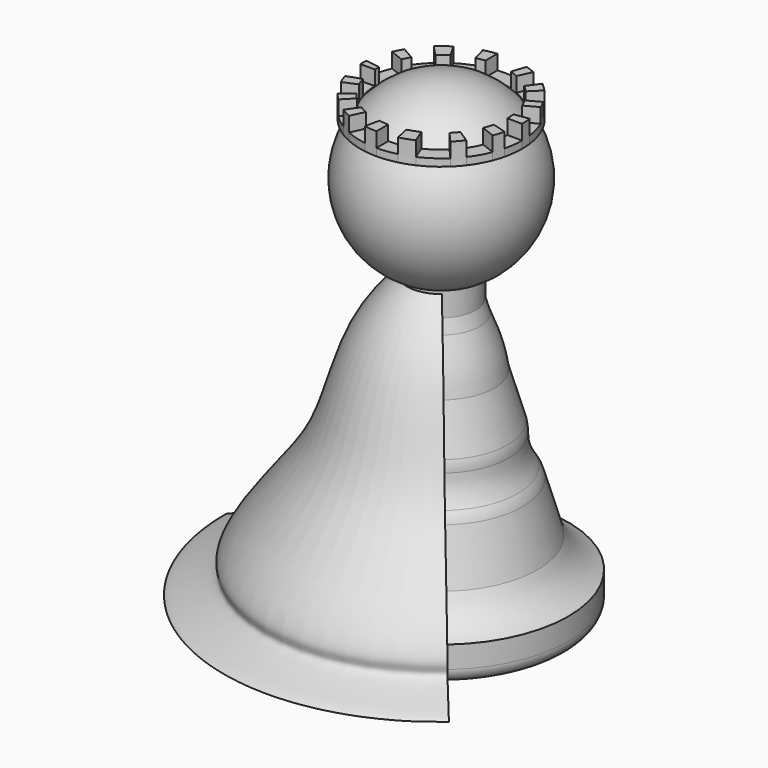
from build123d import *

# Parameters (mm, degrees)
F4_DEPTH = 3
F5_DEPTH = 1
F6_DEPTH = 5
F7_R     = 2
F9_ANGLE = 130


with BuildPart() as f1:
    # F0 (on Front) → F1 (revolve)
    with BuildSketch(Plane.XZ):
        with BuildLine():
            Line((0, 8.9536571056), (0, 32.9536571056))
            ThreePointArc((0, 32.9536571056), (-11.7588657163, 23.3472061581), (-4.6909036491, 9.9085032834))
            Line((-4.6909036491, 9.9085032834), (-4.6909036491, 6.6269987595))
            Line((-4.6909036491, 6.6269987595), (-5.2184266047, 4.840303768))
            ThreePointArc((-5.2184266047, 4.840303768), (-6.437289583, 1.5371214777), (-7.2080250168, -1.898370786))
            Line((-7.2080250168, -1.898370786), (-9.0345873542, -8.0848499615))
            ThreePointArc((-9.0345873542, -8.0848499615), (-9.1943632252, -8.8323349831), (-9.2383352939, -9.5954395917))
            ThreePointArc((-9.2383352939, -9.5954395917), (-9.5119385128, -11.6239370875), (-10.3839968128, -13.4757402987))
            ThreePointArc((-10.3839968128, -13.4757402987), (-10.7615590432, -14.1403521769), (-11.0334046763, -14.8547485222))
            Line((-11.0334046763, -14.8547485222), (-13.0695258964, -21.7509935991))
            ThreePointArc((-13.0695258964, -21.7509935991), (-14.775521433, -24.2536570073), (-17.3054318875, -25.9189791977))
            Line((-17.3054318875, -25.9189791977), (-14.3001265824, -25.9189791977))
            Line((-14.3001265824, -25.9189791977), (0, -25.9189791977))
            Line((0, -25.9189791977), (0, 8.9536571056))
        make_face()
    revolve(axis=Axis((0, 0, 20.9536571056), (0, 0, -1)))

    # F3 (on offset) → F4 (join)
    with BuildSketch(Plane.XY.offset(28)):
        with BuildLine():
            Line((-7.7326163344, 4.6050672769), (-9.4700141114, 5.5963231438))
            ThreePointArc((-9.4700141114, 5.5963231438), (-9.8179681197, 4.9605949241), (-10.1233054635, 4.3033343458))
            Line((-10.1233054635, 4.3033343458), (-8.2608121396, 3.5719718355))
            ThreePointArc((-8.2608121396, 3.5719718355), (-8.0133800694, 4.0970403786), (-7.7326163344, 4.6050672769))
        make_face()
        with BuildLine():
            Line((-4.7989606069, 7.6138017503), (-5.8026207118, 9.3450303838))
            ThreePointArc((-5.8026207118, 9.3450303838), (-6.6653951804, 8.750571815), (-7.4676984972, 8.0767245313))
            Line((-7.4676984972, 8.0767245313), (-6.0988601505, 6.618451848))
            ThreePointArc((-6.0988601505, 6.618451848), (-5.4715906894, 7.1457466599), (-4.7989606069, 7.6138017503))
        make_face()
        with BuildLine():
            Line((-1.1204054688, 8.9299883307), (-1.1204054688, 10.9427917638))
            ThreePointArc((-1.1204054688, 10.9427917638), (-1.9837997538, 10.81963671), (-2.8347236956, 10.6284684489))
            Line((-2.8347236956, 10.6284684489), (-2.3193193873, 8.69601964))
            ThreePointArc((-2.3193193873, 8.69601964), (-1.7238364506, 8.833367868), (-1.1204054688, 8.9299883307))
        make_face()
        with BuildLine():
            Line((3.6675038903, 8.2188451266), (4.5112692622, 10.032370091))
            ThreePointArc((4.5112692622, 10.032370091), (3.8634934166, 10.2991950472), (3.2000461847, 10.5242436505))
            Line((3.2000461847, 10.5242436505), (2.5753451667, 8.6236649559))
            ThreePointArc((2.5753451667, 8.6236649559), (3.1279803166, 8.4389418258), (3.6675038903, 8.2188451266))
        make_face()
        with BuildLine():
            Line((6.6480759075, 6.066554766), (8.0697693557, 7.4752138796))
            ThreePointArc((8.0697693557, 7.4752138796), (7.5163758221, 8.0314441105), (6.9247396844, 8.546811119))
            Line((6.9247396844, 8.546811119), (5.7400802682, 6.9319173765))
            ThreePointArc((5.7400802682, 6.9319173765), (6.2091719633, 6.5150735629), (6.6480759075, 6.066554766))
        make_face()
        with BuildLine():
            Line((8.381330513, 3.2792222908), (10.1536838858, 4.231158653))
            ThreePointArc((10.1536838858, 4.231158653), (9.9031392577, 4.7883016657), (9.6220519611, 5.3306768855))
            Line((9.6220519611, 5.3306768855), (7.8599288471, 4.3842352262))
            ThreePointArc((7.8599288471, 4.3842352262), (8.1394035283, 3.8405872211), (8.381330513, 3.2792222908))
        make_face()
        with BuildLine():
            Line((9, 0), (11, 0))
            ThreePointArc((11, 0), (10.9768326617, 0.7135437743), (10.9074282331, 1.4240819286))
            Line((10.9074282331, 1.4240819286), (8.9293318315, 1.1256256226))
            ThreePointArc((8.9293318315, 1.1256256226), (8.9823155835, 0.5639208793), (9, 0))
        make_face()
        with BuildLine():
            ThreePointArc((10.2325994605, -4.0365713522), (10.4874151945, -3.3187531602), (10.691943858, -2.5850215738))
            Line((10.691943858, -2.5850215738), (8.7697045642, -2.0229389158))
            ThreePointArc((8.7697045642, -2.0229389158), (8.5924806808, -2.6775503262), (8.3664680129, -3.3169583941))
            Line((8.3664680129, -3.3169583941), (10.2325994605, -4.0365713522))
        make_face()
        with BuildLine():
            ThreePointArc((7.6075492846, -7.9451364924), (8.2033295315, -7.3283957725), (8.7492577233, -6.6671200148))
            Line((8.7492577233, -6.6671200148), (7.0745743306, -5.5633081921))
            ThreePointArc((7.0745743306, -5.5633081921), (6.6944584644, -6.0153325651), (6.2855139371, -6.4414528289))
            Line((6.2855139371, -6.4414528289), (7.6075492846, -7.9451364924))
        make_face()
        with BuildLine():
            ThreePointArc((2.6579308296, -10.6740528247), (3.627102701, -10.384802646), (4.5656102732, -10.007757133))
            Line((4.5656102732, -10.007757133), (3.8169007496, -8.1505379373))
            ThreePointArc((3.8169007496, -8.1505379373), (3.0455320567, -8.4690456659), (2.2479771709, -8.7147345708))
            Line((2.2479771709, -8.7147345708), (2.6579308296, -10.6740528247))
        make_face()
        with BuildLine():
            ThreePointArc((-1.6964392248, -10.8683988681), (-0.8507680209, -10.967050368), (0, -11))
            Line((0, -11), (0, -9))
            ThreePointArc((0, -9), (-0.6415158938, -8.9771074048), (-1.2797682401, -8.9085460796))
            Line((-1.2797682401, -8.9085460796), (-1.6964392248, -10.8683988681))
        make_face()
        with BuildLine():
            ThreePointArc((-5.8350630782, -9.3248077124), (-5.1757562227, -9.7062633141), (-4.4916316629, -10.041177471))
            Line((-4.4916316629, -10.041177471), (-3.654572884, -8.2246031537))
            ThreePointArc((-3.654572884, -8.2246031537), (-4.1799452503, -7.9704490278), (-4.687740666, -7.6827786281))
            Line((-4.687740666, -7.6827786281), (-5.8350630782, -9.3248077124))
        make_face()
        with BuildLine():
            ThreePointArc((-8.6622513575, -6.7797788622), (-8.2167931961, -7.313296765), (-7.7385307219, -7.817617429))
            Line((-7.7385307219, -7.817617429), (-6.3378864665, -6.3899291966))
            ThreePointArc((-6.3378864665, -6.3899291966), (-6.7225926494, -5.9838740019), (-7.0813313932, -5.5547048256))
            Line((-7.0813313932, -5.5547048256), (-8.6622513575, -6.7797788622))
        make_face()
        with BuildLine():
            ThreePointArc((-10.5379334072, -3.1546726464), (-10.3051906279, -3.8474726929), (-10.0269567253, -4.5232884972))
            Line((-10.0269567253, -4.5232884972), (-8.1851017827, -3.7422064088))
            ThreePointArc((-8.1851017827, -3.7422064088), (-8.4390860639, -3.1275911508), (-8.6469929423, -2.4958992478))
            Line((-8.6469929423, -2.4958992478), (-10.5379334072, -3.1546726464))
        make_face()
        with BuildLine():
            Line((-8.9736507136, 0.688180841), (-10.9525234141, 1.0208970879))
            ThreePointArc((-10.9525234141, 1.0208970879), (-10.9881244431, 0.5110002178), (-11, 0))
            Line((-11, 0), (-9, 0))
            ThreePointArc((-9, 0), (-8.9934102659, 0.3443425456), (-8.9736507136, 0.688180841))
        make_face()
    extrude(amount=F4_DEPTH)

    # F3 (on offset) → F5 (join)
    with BuildSketch(Plane.XY.offset(28)):
        with BuildLine():
            Line((-2.3193193873, 8.69601964), (-2.8347236956, 10.6284684489))
            ThreePointArc((-2.8347236956, 10.6284684489), (-4.366088973, 10.0963987184), (-5.8026207118, 9.3450303838))
            Line((-5.8026207118, 9.3450303838), (-4.7989606069, 7.6138017503))
            ThreePointArc((-4.7989606069, 7.6138017503), (-3.60003839, 8.2486194961), (-2.3193193873, 8.69601964))
        make_face()
        with BuildLine():
            Line((-6.0988601505, 6.618451848), (-7.4676984972, 8.0767245313))
            ThreePointArc((-7.4676984972, 8.0767245313), (-8.5591836564, 6.9094410147), (-9.4700141114, 5.5963231438))
            Line((-9.4700141114, 5.5963231438), (-7.7326163344, 4.6050672769))
            ThreePointArc((-7.7326163344, 4.6050672769), (-6.9886239558, 5.6709025035), (-6.0988601505, 6.618451848))
        make_face()
        with BuildLine():
            Line((-8.2608121396, 3.5719718355), (-10.1233054635, 4.3033343458))
            ThreePointArc((-10.1233054635, 4.3033343458), (-10.6649537884, 2.6942087321), (-10.9525234141, 1.0208970879))
            Line((-10.9525234141, 1.0208970879), (-8.9736507136, 0.688180841))
            ThreePointArc((-8.9736507136, 0.688180841), (-8.7370326819, 2.1596897728), (-8.2608121396, 3.5719718355))
        make_face()
        with BuildLine():
            ThreePointArc((-11, 0), (-10.8838703474, -1.5941663215), (-10.5379334072, -3.1546726464))
            Line((-10.5379334072, -3.1546726464), (-8.6469929423, -2.4958992478))
            ThreePointArc((-8.6469929423, -2.4958992478), (-8.9113112526, -1.2603696916), (-9, 0))
            Line((-9, 0), (-11, 0))
        make_face()
        with BuildLine():
            ThreePointArc((-10.0269567253, -4.5232884972), (-9.4124684266, -5.6925774582), (-8.6622513575, -6.7797788622))
            Line((-8.6622513575, -6.7797788622), (-7.0813313932, -5.5547048256))
            ThreePointArc((-7.0813313932, -5.5547048256), (-7.6868252944, -4.6811021024), (-8.1851017827, -3.7422064088))
            Line((-8.1851017827, -3.7422064088), (-10.0269567253, -4.5232884972))
        make_face()
        with BuildLine():
            ThreePointArc((-7.7385307219, -7.817617429), (-6.8285077287, -8.623890201), (-5.8350630782, -9.3248077124))
            Line((-5.8350630782, -9.3248077124), (-4.687740666, -7.6827786281))
            ThreePointArc((-4.687740666, -7.6827786281), (-5.5505836026, -7.0845622074), (-6.3378864665, -6.3899291966))
            Line((-6.3378864665, -6.3899291966), (-7.7385307219, -7.817617429))
        make_face()
        with BuildLine():
            ThreePointArc((-4.4916316629, -10.041177471), (-3.1215587673, -10.5477898568), (-1.6964392248, -10.8683988681))
            Line((-1.6964392248, -10.8683988681), (-1.2797682401, -8.9085460796))
            ThreePointArc((-1.2797682401, -8.9085460796), (-2.4907579296, -8.6484752955), (-3.654572884, -8.2246031537))
            Line((-3.654572884, -8.2246031537), (-4.4916316629, -10.041177471))
        make_face()
        with BuildLine():
            ThreePointArc((0, -11), (1.3389210074, -10.9182091268), (2.6579308296, -10.6740528247))
            Line((2.6579308296, -10.6740528247), (2.2479771709, -8.7147345708))
            ThreePointArc((2.2479771709, -8.7147345708), (1.133002397, -8.9283988245), (0, -9))
            Line((0, -9), (0, -11))
        make_face()
        with BuildLine():
            ThreePointArc((4.5656102732, -10.007757133), (6.1733341382, -9.1043915567), (7.6075492846, -7.9451364924))
            Line((7.6075492846, -7.9451364924), (6.2855139371, -6.4414528289))
            ThreePointArc((6.2855139371, -6.4414528289), (5.1229814173, -7.3996663031), (3.8169007496, -8.1505379373))
            Line((3.8169007496, -8.1505379373), (4.5656102732, -10.007757133))
        make_face()
        with BuildLine():
            ThreePointArc((8.7492577233, -6.6671200148), (9.5816320166, -5.4029924947), (10.2325994605, -4.0365713522))
            Line((10.2325994605, -4.0365713522), (8.3664680129, -3.3169583941))
            ThreePointArc((8.3664680129, -3.3169583941), (7.8017926797, -4.4868731854), (7.0745743306, -5.5633081921))
            Line((7.0745743306, -5.5633081921), (8.7492577233, -6.6671200148))
        make_face()
        with BuildLine():
            ThreePointArc((10.691943858, -2.5850215738), (10.922714462, -1.3016561685), (11, 0))
            Line((11, 0), (9, 0))
            ThreePointArc((9, 0), (8.9422408008, -1.0180026823), (8.7697045642, -2.0229389158))
            Line((8.7697045642, -2.0229389158), (10.691943858, -2.5850215738))
        make_face()
        with BuildLine():
            Line((8.9293318315, 1.1256256226), (10.9074282331, 1.4240819286))
            ThreePointArc((10.9074282331, 1.4240819286), (10.6236778404, 2.8526249568), (10.1536838858, 4.231158653))
            Line((10.1536838858, 4.231158653), (8.381330513, 3.2792222908))
            ThreePointArc((8.381330513, 3.2792222908), (8.722055512, 2.2194025427), (8.9293318315, 1.1256256226))
        make_face()
        with BuildLine():
            Line((7.8599288471, 4.3842352262), (9.6220519611, 5.3306768855))
            ThreePointArc((9.6220519611, 5.3306768855), (8.9106618781, 6.4498143302), (8.0697693557, 7.4752138796))
            Line((8.0697693557, 7.4752138796), (6.6480759075, 6.066554766))
            ThreePointArc((6.6480759075, 6.066554766), (7.3026091398, 5.2604087058), (7.8599288471, 4.3842352262))
        make_face()
        with BuildLine():
            Line((5.7400802682, 6.9319173765), (6.9247396844, 8.546811119))
            ThreePointArc((6.9247396844, 8.546811119), (5.7660468713, 9.3676412975), (4.5112692622, 10.032370091))
            Line((4.5112692622, 10.032370091), (3.6675038903, 8.2188451266))
            ThreePointArc((3.6675038903, 8.2188451266), (4.747599992, 7.6459331881), (5.7400802682, 6.9319173765))
        make_face()
        with BuildLine():
            Line((2.5753451667, 8.6236649559), (3.2000461847, 10.5242436505))
            ThreePointArc((3.2000461847, 10.5242436505), (1.0606705462, 10.9487432152), (-1.1204054688, 10.9427917638))
            Line((-1.1204054688, 10.9427917638), (-1.1204054688, 8.9299883307))
            ThreePointArc((-1.1204054688, 8.9299883307), (0.7434183772, 8.9692435086), (2.5753451667, 8.6236649559))
        make_face()
    extrude(amount=F5_DEPTH)

    # F6 (add): a face of the model
    f6_faces = [f1.faces().sort_by_distance(p)[0] for p in [
        (0, 0, -25.9189791977),
    ]]
    extrude(f6_faces, amount=F6_DEPTH)

    # F7
    f7_edges = [f1.edges().sort_by_distance(p)[0] for p in [
        (17.305432, 0, -30.918979),
    ]]
    fillet(f7_edges, radius=F7_R)

    # F8 (on Front) → F9 (revolve)
    with BuildSketch(Plane.XZ):
        with BuildLine():
            ThreePointArc((-7.1762702428, -1.9414020935), (-6.4024672895, 1.699484827), (-5.1210454696, 5.1941645974))
            ThreePointArc((-5.1210454696, 5.1941645974), (-4.3852411218, 7.7267273924), (-3.7082096096, 10.2756312117))
            add(Edge.make_bspline(
                [(-3.7082096096, 10.2756312117), (-4.2469368886, 9.870537229), (-5.7756178901, 8.7210512102), (-10.9314330005, 2.3035001432), (-13.307652561, -9.4956363399), (-18.3745660594, -16.0718923859), (-24.8880340322, -24.6768951599), (-22.6689529957, -26.8479238141), (-34.5987814905, -29.8028913665), (-23.6788341131, -29.2070360857), (-17.2579921782, -28.8566779345)],
                knots=[0, 0, 0, 0, 0.0726062144, 0.2060258408, 0.3694678367, 0.513916961, 0.6609766697, 0.7195696792, 0.8351092087, 1, 1, 1, 1], degree=3))
            Line((-17.2579921782, -28.8566779345), (-17.2579921782, -25.9163994342))
            ThreePointArc((-17.2579921782, -25.9163994342), (-14.725534912, -24.2554544404), (-13.0460606888, -21.7352472246))
            ThreePointArc((-13.0460606888, -21.7352472246), (-12.0177981278, -18.3242980637), (-11.0333841294, -14.9004366249))
            ThreePointArc((-11.0333841294, -14.9004366249), (-10.7588537504, -14.1150487591), (-10.324110277, -13.4056834504))
            ThreePointArc((-10.324110277, -13.4056834504), (-9.470548198, -11.5861177518), (-9.2823738232, -9.5851235092))
            ThreePointArc((-9.2823738232, -9.5851235092), (-9.165579803, -8.8313776061), (-8.9891208336, -8.089329116))
            ThreePointArc((-8.9891208336, -8.089329116), (-8.1158440376, -5.0055910456), (-7.1762702428, -1.9414020935))
        make_face()
    revolve(axis=Axis((-0.0853933113, 0, 15.094461315), (-0.0056571707, 0, 0.9999839981)), revolution_arc=F9_ANGLE)


solid = f1.part
